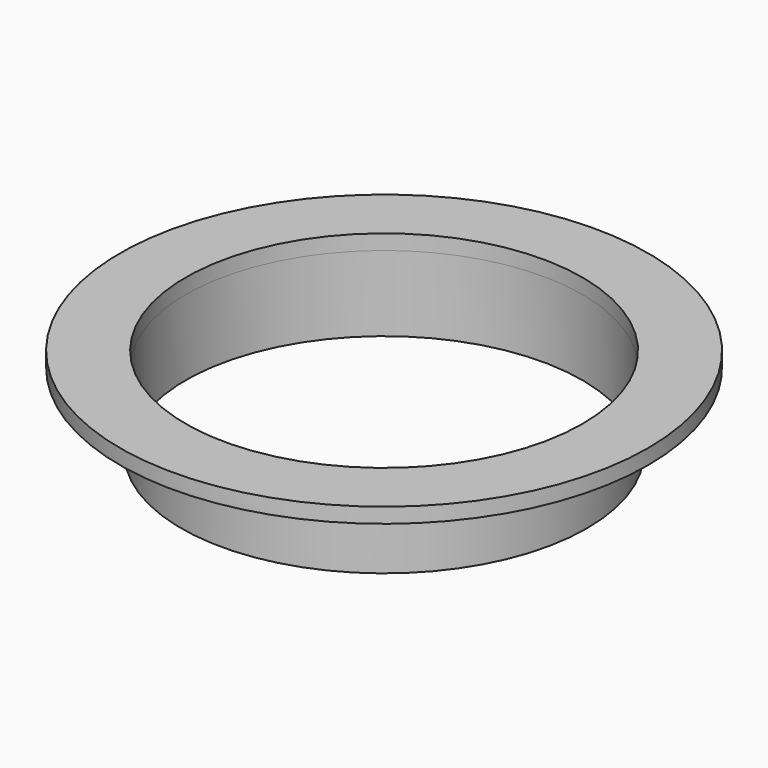
from build123d import *

# Parameters (mm, degrees)
F0_R          = 44.45
F0_R_2        = 34.163
F1_DEPTH      = 2.54
F0_R_3        = 33.401
F2_DEPTH      = 2.54
F2_DEPTH_BACK = 12.7


with BuildPart() as f1:
    # F0 (on Top) → F1 (new body)
    with BuildSketch(Plane.XY):
        Circle(F0_R)
        Circle(F0_R_2, mode=Mode.SUBTRACT)
    extrude(amount=F1_DEPTH)

    # F0 (on Top) → F2 (join, two sides)
    with BuildSketch(Plane.XY) as f2_sk:
        Circle(F0_R_2)
        Circle(F0_R_3, mode=Mode.SUBTRACT)
    extrude(amount=F2_DEPTH)
    extrude(f2_sk.sketch, amount=-F2_DEPTH_BACK)


solid = f1.part
